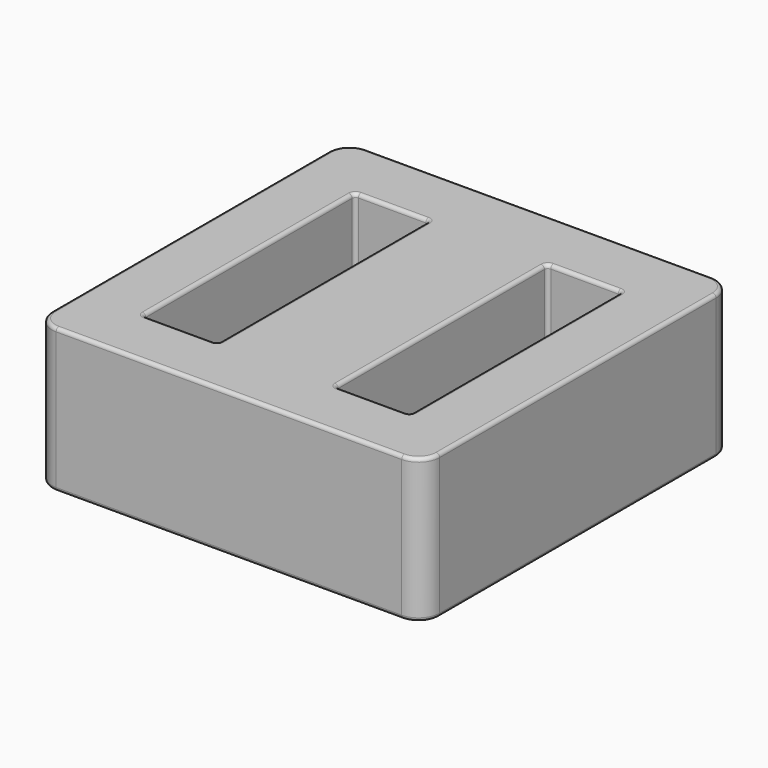
from build123d import *

# Parameters (mm, degrees)
F1_START = 13
F0_W     = 55.2
F0_H     = 55.2
F0_W_2   = 10.6
F0_H_2   = 37.7
F1_DEPTH = 20.5
F2_R     = 3
F3_R     = 0.5


with BuildPart() as f1:
    # F0 (on Top) → F1 (new body)
    with BuildSketch(Plane.XY.offset(F1_START)):
        Rectangle(F0_W, F0_H)
        with Locations((-13.7, -0.2898262978)):
            Rectangle(F0_W_2, F0_H_2, mode=Mode.SUBTRACT)
        with Locations((13.7, -0.2898262978)):
            Rectangle(F0_W_2, F0_H_2, mode=Mode.SUBTRACT)
    extrude(amount=F1_DEPTH)

    # F2
    f2_edges = [f1.edges().sort_by_distance(p)[0] for p in [
        (-27.6, -27.6, 23.25),
        (27.6, -27.6, 23.25),
        (27.6, 27.6, 23.25),
        (-27.6, 27.6, 23.25),
    ]]
    fillet(f2_edges, radius=F2_R)

    # F3
    f3_edges = [f1.edges().sort_by_distance(p)[0] for p in [
        (-8.4, -0.289826, 33.5),
        (-19, -0.289826, 33.5),
        (-13.7, 18.560174, 33.5),
        (8.4, -0.289826, 33.5),
        (-19, 18.560174, 23.25),
        (-13.7, -19.139826, 33.5),
        (8.4, 18.560174, 23.25),
        (19, -0.289826, 33.5),
        (13.7, -19.139826, 33.5),
        (27.6, 0, 13),
        (0, -27.6, 13),
        (27.6, 0, 33.5),
        (0, -27.6, 33.5),
        (0, 27.6, 33.5),
        (-13.7, 18.560174, 13),
        (13.7, 18.560174, 33.5),
        (-13.7, -19.139826, 13),
        (19, -0.289826, 13),
        (-24.6, -27.6, 23.25),
        (13.7, 18.560174, 13),
        (-26.72132, -26.72132, 33.5),
        (-27.6, -24.6, 23.25),
        (24.6, 27.6, 23.25),
        (26.72132, 26.72132, 13),
        (-8.4, -0.289826, 13),
        (26.72132, 26.72132, 33.5),
        (27.6, 24.6, 23.25),
        (-19, -0.289826, 13),
        (-19, -19.139826, 23.25),
        (-8.4, -19.139826, 23.25),
        (-8.4, 18.560174, 23.25),
        (8.4, -0.289826, 13),
        (19, 18.560174, 23.25),
        (8.4, -19.139826, 23.25),
        (19, -19.139826, 23.25),
        (26.72132, -26.72132, 13),
        (26.72132, -26.72132, 33.5),
        (24.6, -27.6, 23.25),
        (27.6, -24.6, 23.25),
        (-26.72132, -26.72132, 13),
        (-27.6, 0, 33.5),
        (-27.6, 0, 13),
        (0, 27.6, 13),
        (-27.6, 24.6, 23.25),
        (13.7, -19.139826, 13),
        (-24.6, 27.6, 23.25),
        (-26.72132, 26.72132, 13),
        (-26.72132, 26.72132, 33.5),
    ]]
    fillet(f3_edges, radius=F3_R)


solid = f1.part
